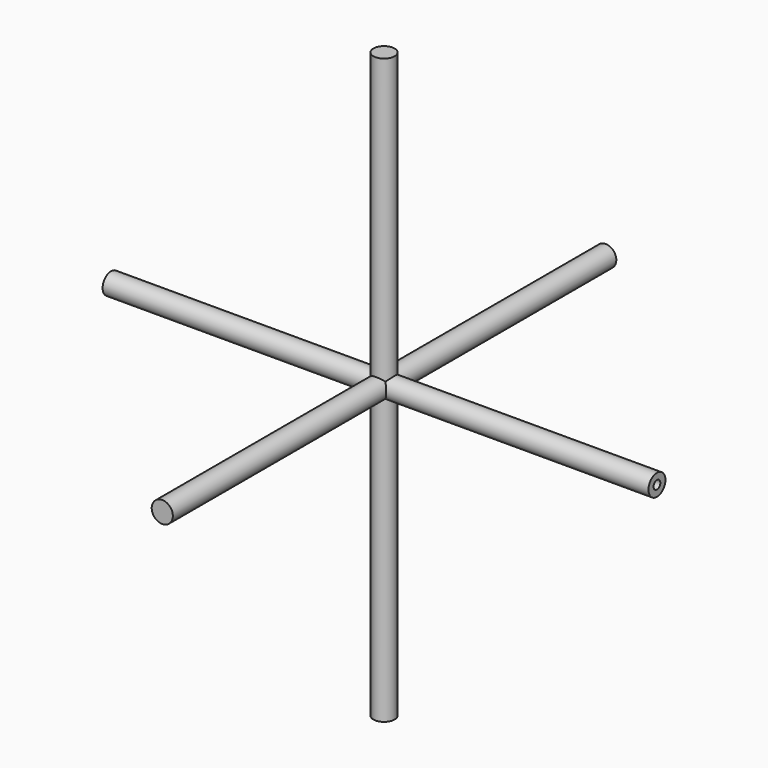
from build123d import *

# Parameters (mm, degrees)
F3_R      = 7.9375
F4_DEPTH  = 204.7875
F5_ANGLE  = 90
F6_DEPTH  = 207.9625
F7_R      = 3.175
F8_DEPTH  = 15
F9_R      = 3.175
F10_DEPTH = 10
F11_DEPTH = 219.075
F12_ANGLE = 90


with BuildPart() as f4:
    # F3 (on Front) → F4 (new body, symmetric)
    with BuildSketch(Plane.XZ):
        Circle(F3_R)
    extrude(amount=F4_DEPTH, both=True)


with BuildPart() as f4_1:
    # F5: moved
    add(f4.part.rotate(Axis((0, 0, -2.6196539402), (0, 0, -1)), F5_ANGLE))

    # F7 (on face) → F8 (cut)
    with BuildSketch(Plane.YZ.offset(204.7875)):
        Circle(F7_R)
    extrude(amount=-F8_DEPTH, mode=Mode.SUBTRACT)

    # F9 (on face) → F10 (cut)
    with BuildSketch(Plane(origin=(-204.7875, 0, 0), x_dir=(0, -1, 0), z_dir=(-1, 0, 0))):
        Circle(F9_R)
    extrude(amount=-F10_DEPTH, mode=Mode.SUBTRACT)


with BuildPart() as f6:
    # F3 (on Front) → F6 (new body, symmetric)
    with BuildSketch(Plane.XZ):
        Circle(F3_R)
    extrude(amount=F6_DEPTH, both=True)


with BuildPart() as f11:
    # F3 (on Front) → F11 (new body, symmetric)
    with BuildSketch(Plane.XZ):
        Circle(F3_R)
    extrude(amount=F11_DEPTH, both=True)


with BuildPart() as f11_1:
    # F12: moved
    add(f11.part.rotate(Axis((-0.2879761159, 0, 0), (1, 0, 0)), F12_ANGLE))


solid = Compound([f4_1.part, f6.part, f11_1.part])
